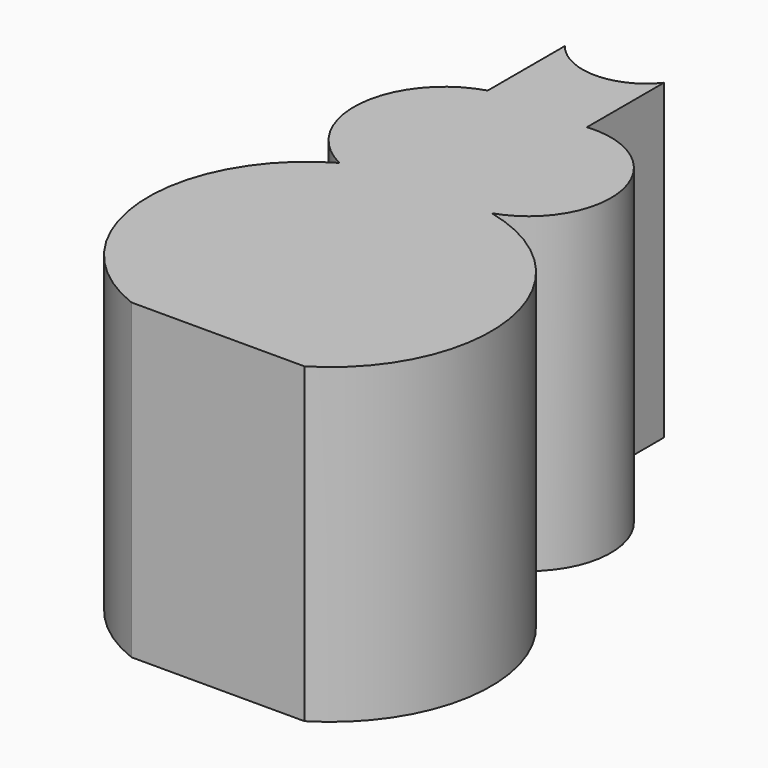
from build123d import *

# Parameters (mm, degrees)
F1_DEPTH = 60


with BuildPart() as f1:
    # F0 (on Top) → F1 (new body)
    with BuildSketch(Plane.XY):
        with BuildLine():
            Line((0, -41.300625), (23.163913, -41.300625))
            ThreePointArc((23.163913, -41.300625), (37.541736, -10.033364), (14.019156, 15.087376))
            ThreePointArc((14.019156, 15.087376), (24.581036, 33.266488), (7.719544, 45.825291))
            Line((7.719544, 45.825291), (7.719544, 64.319231))
            ThreePointArc((7.719544, 64.319231), (-1.807018, 59.74027), (-11.333581, 64.319231))
            Line((-11.333581, 64.319231), (-11.333581, 45.825291))
            ThreePointArc((-11.333581, 45.825291), (-23.6358, 30.608301), (-14.024769, 13.563377))
            ThreePointArc((-14.024769, 13.563377), (-29.434517, -15.124752), (-10.062043, -41.300625))
            Line((-10.062043, -41.300625), (0, -41.300625))
        make_face()
    extrude(amount=F1_DEPTH)


solid = f1.part
